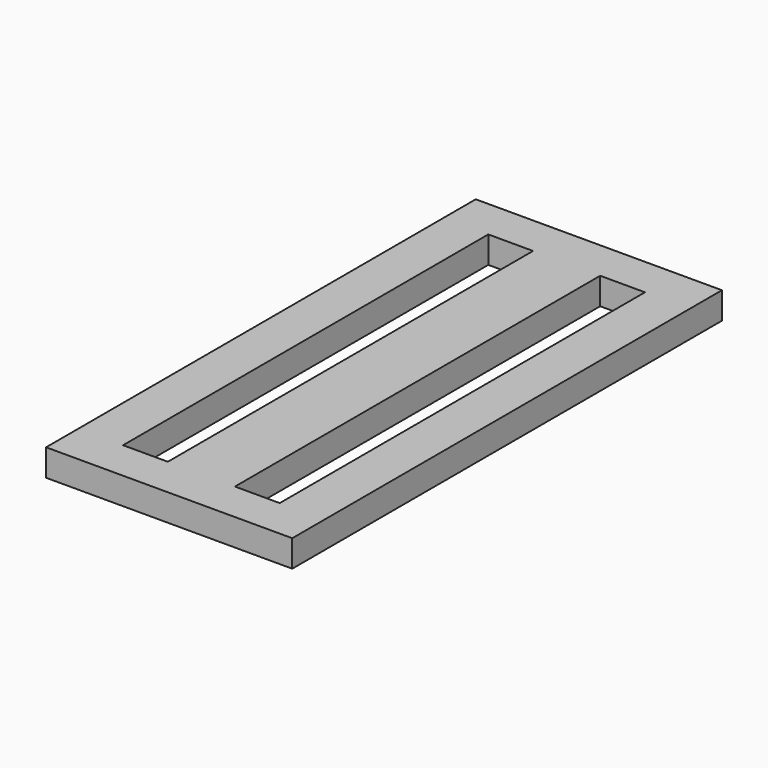
from build123d import *

# Parameters (mm, degrees)
SKETCH_W   = 27.5
SKETCH_H   = 60
SKETCH_W_2 = 5
SKETCH_H_2 = 51
PAD_DEPTH  = 3


with BuildPart() as part:
    # Sketch → Pad (new body)
    with BuildSketch(Plane.XY):
        Rectangle(SKETCH_W, SKETCH_H)
        with Locations((-6.25, 0)):
            Rectangle(SKETCH_W_2, SKETCH_H_2, mode=Mode.SUBTRACT)
        with Locations((6.25, 0)):
            Rectangle(SKETCH_W_2, SKETCH_H_2, mode=Mode.SUBTRACT)
    extrude(amount=PAD_DEPTH)


solid = part.part
